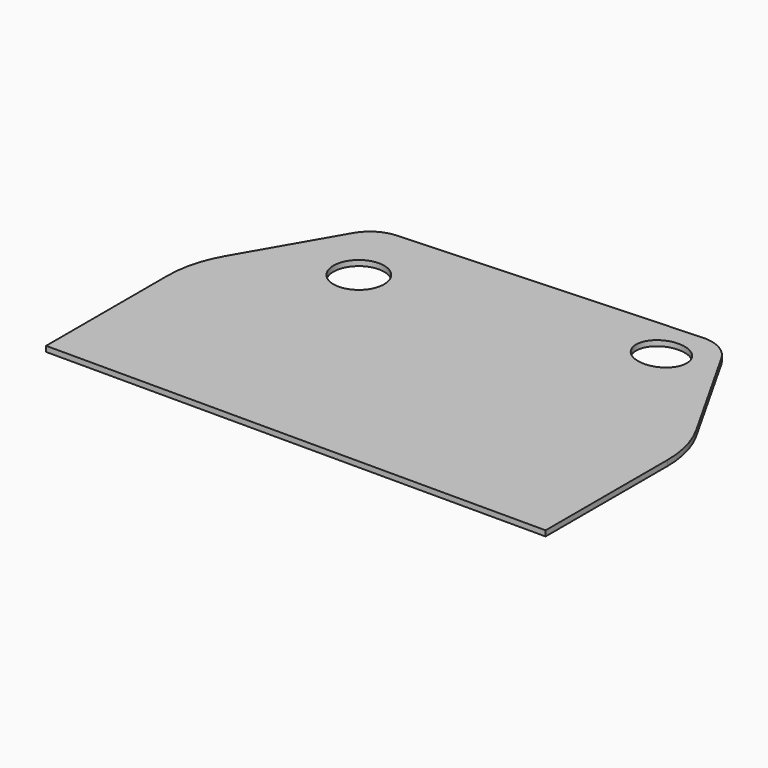
from build123d import *

# Parameters (mm, degrees)
SKETCH_R    = 7
PAD_DEPTH   = 1.5
FILLET_R    = 10
FILLET001_R = 30


with BuildPart() as part:
    # Sketch → Pad (new body)
    with BuildSketch(Plane.XY):
        Polygon((0, -50), (0, 0), (21.5, 37.239092), (114.38853, 41.791129), (138, 0), (138, -50), align=None)
        with Locations((32, 18)):
            Circle(SKETCH_R, mode=Mode.SUBTRACT)
        with BuildLine():
            add(Edge.make_bspline(
                [(113, 30), (113, 40.392305), (102.5, 35.196152), (92, 30), (102.5, 24.803848), (113, 19.607695), (113, 30)],
                knots=[0, 0, 0, 2.094395, 2.094395, 4.18879, 4.18879, 6.283185, 6.283185, 6.283185], degree=2, weights=[1, 0.5, 1, 0.5, 1, 0.5, 1]))
        make_face(mode=Mode.SUBTRACT)
    extrude(amount=PAD_DEPTH)

    # Fillet
    fillet_edges = [part.edges().sort_by_distance(p)[0] for p in [
        (21.5, 37.239092, 0.75),
        (114.38853, 41.791129, 0.75),
    ]]
    fillet(fillet_edges, radius=FILLET_R)

    # Fillet001
    fillet001_edges = [part.edges().sort_by_distance(p)[0] for p in [
        (138, 0, 0.75),
        (0, 0, 0.75),
    ]]
    fillet(fillet001_edges, radius=FILLET001_R)


solid = part.part
